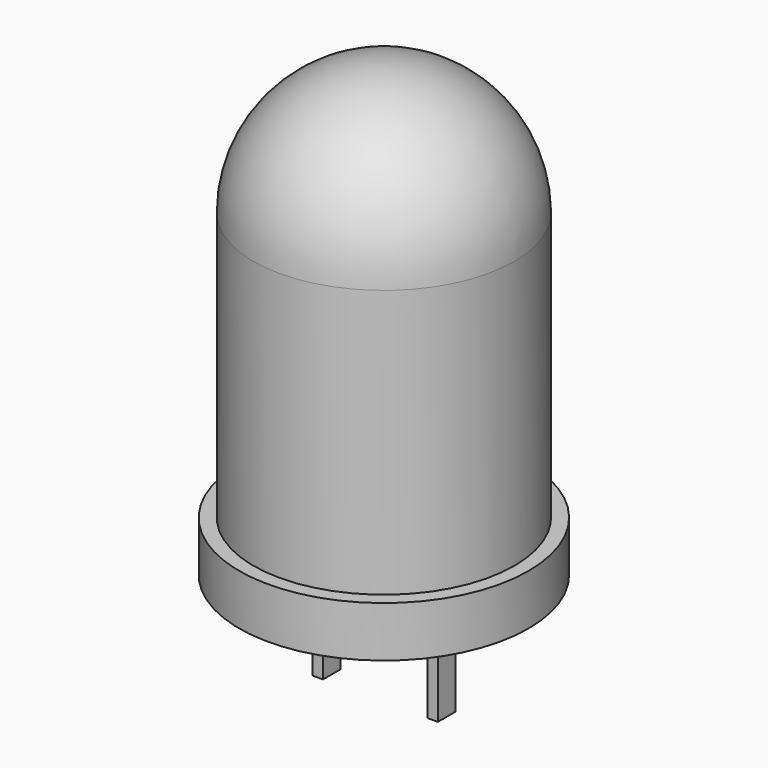
from build123d import *

# Parameters (mm, degrees)
F0_R     = 2.77
F0_R_2   = 2.5
F1_DEPTH = 0.97
F2_DEPTH = 8.6
F3_R     = 2.5
F4_W     = 0.2
F4_H     = 0.418926
F5_DEPTH = 2


with BuildPart() as f1:
    # F0 (on Top) → F1 (new body)
    with BuildSketch(Plane.XY):
        Circle(F0_R)
        Circle(F0_R_2, mode=Mode.SUBTRACT)
        Circle(F0_R_2)
    extrude(amount=F1_DEPTH)

    # F0 (on Top) → F2 (join)
    with BuildSketch(Plane.XY):
        Circle(F0_R_2)
    extrude(amount=F2_DEPTH)

    # F3
    f3_edges = [f1.edges().sort_by_distance(p)[0] for p in [
        (-2.5, 0, 8.6),
    ]]
    fillet(f3_edges, radius=F3_R)

    # F4 (on face) → F5 (join)
    with BuildSketch(Plane(origin=(0, 0, 0), x_dir=(1, 0, 0), z_dir=(0, 0, -1))):
        with Locations((-1.1, 0)):
            Rectangle(F4_W, F4_H)
        with Locations((1.1, 0)):
            Rectangle(F4_W, F4_H)
    extrude(amount=F5_DEPTH)


solid = f1.part
